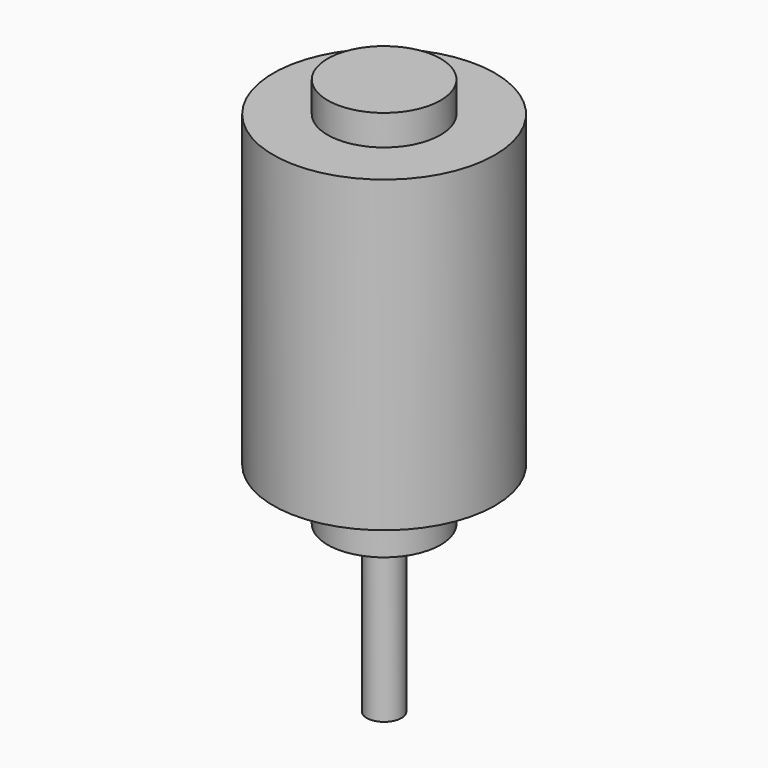
from build123d import *

# Parameters (mm, degrees)
F0_R     = 4
F1_DEPTH = 38
F2_R     = 13
F2_R_2   = 4
F3_DEPTH = 12
F4_R     = 25.5
F4_R_2   = 13
F5_DEPTH = 71
F6_R     = 13
F7_DEPTH = 7


with BuildPart() as f1:
    # F0 (on Top) → F1 (new body)
    with BuildSketch(Plane.XY):
        Circle(F0_R)
    extrude(amount=F1_DEPTH)

    # F2 (on face) → F3 (join)
    with BuildSketch(Plane.XY.offset(38)):
        Circle(F2_R)
        Circle(F2_R_2, mode=Mode.SUBTRACT)
        Circle(F2_R_2)
    extrude(amount=F3_DEPTH)

    # F4 (on face) → F5 (join)
    with BuildSketch(Plane.XY.offset(50)):
        Circle(F4_R)
        Circle(F4_R_2, mode=Mode.SUBTRACT)
        Circle(F4_R_2)
    extrude(amount=F5_DEPTH)

    # F6 (on face) → F7 (join)
    with BuildSketch(Plane.XY.offset(121)):
        Circle(F6_R)
    extrude(amount=F7_DEPTH)


solid = f1.part
